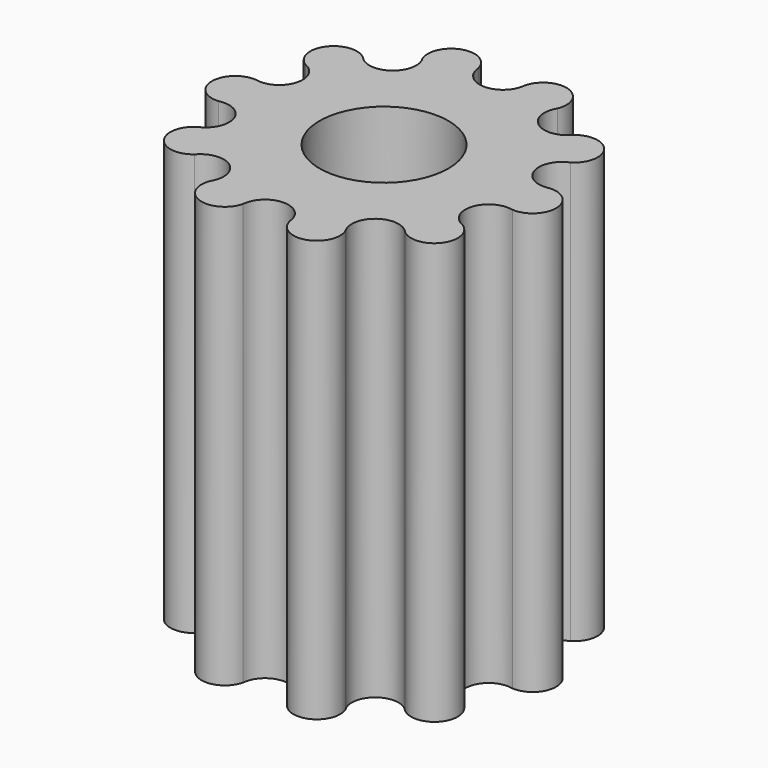
from build123d import *

# Parameters (mm, degrees)
EXTRUDE001_DEPTH = 2
SKETCH_R         = 2.6
EXTRUDE_DEPTH    = 8.5


with BuildPart() as nut_pocket:
    # Sketch001 → Extrude001 (new body, symmetric)
    with BuildSketch(Plane.XY):
        Polygon((-4.835, 0), (-2.4, -4.2), (2.4, -4.2), (4.835, 0), (2.4, 4.2), (-2.4, 4.2), align=None)
    extrude(amount=EXTRUDE001_DEPTH, both=True)


with BuildPart() as cut:
    # Sketch → Extrude (new body, symmetric)
    with BuildSketch(Plane.XY):
        with BuildLine():
            ThreePointArc((-0.938607, 5.92613), (-0.07387, 5.061393), (0.915495, 5.780209))
            ThreePointArc((2.723943, 5.346039), (2.073893, 6.621834), (0.915495, 5.780209))
            ThreePointArc((2.723943, 5.346039), (2.973306, 4.092405), (4.242641, 4.242641))
            ThreePointArc((5.346039, 2.723943), (5.615799, 4.080117), (4.242641, 4.242641))
            ThreePointArc((5.346039, 2.723943), (4.810911, 1.56316), (5.92613, 0.938607))
            ThreePointArc((5.92613, -0.938607), (6.941509, 0), (5.92613, 0.938607))
            ThreePointArc((5.92613, -0.938607), (4.810911, -1.56316), (5.346039, -2.723943))
            ThreePointArc((4.242641, -4.242641), (5.615799, -4.080117), (5.346039, -2.723943))
            ThreePointArc((4.242641, -4.242641), (2.973306, -4.092405), (2.723943, -5.346039))
            ThreePointArc((0.938607, -5.92613), (2.145044, -6.601768), (2.723943, -5.346039))
            ThreePointArc((0.938607, -5.92613), (0, -5.058491), (-0.938607, -5.92613))
            ThreePointArc((-2.723943, -5.346039), (-2.145044, -6.601768), (-0.938607, -5.92613))
            ThreePointArc((-2.723943, -5.346039), (-2.973306, -4.092405), (-4.242641, -4.242641))
            ThreePointArc((-5.346039, -2.723943), (-5.615799, -4.080117), (-4.242641, -4.242641))
            ThreePointArc((-5.346039, -2.723943), (-4.810911, -1.56316), (-5.92613, -0.938607))
            ThreePointArc((-5.92613, 0.938607), (-6.941509, 0), (-5.92613, -0.938607))
            ThreePointArc((-5.92613, 0.938607), (-4.810911, 1.56316), (-5.346039, 2.723943))
            ThreePointArc((-4.242641, 4.242641), (-5.615799, 4.080117), (-5.346039, 2.723943))
            ThreePointArc((-4.242641, 4.242641), (-2.973306, 4.092405), (-2.723943, 5.346039))
            ThreePointArc((-0.938607, 5.92613), (-2.145044, 6.601768), (-2.723943, 5.346039))
        make_face()
        Circle(SKETCH_R, mode=Mode.SUBTRACT)
    extrude(amount=EXTRUDE_DEPTH, both=True)

    # Cut: cut Nut Pocket
    add(nut_pocket.part, mode=Mode.SUBTRACT)


solid = cut.part
